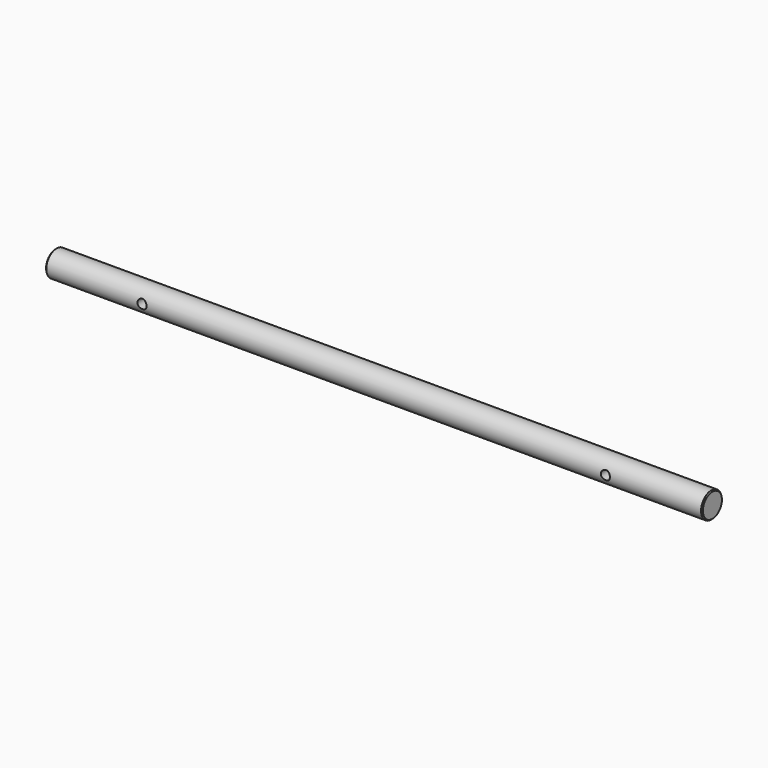
from build123d import *

# Parameters (mm, degrees)
F0_R     = 12.5
F1_DEPTH = 317.5
F4_D     = 8.8
F5_SIZE  = 1


with BuildPart() as f1:
    # F0 (on Right) → F1 (new body, symmetric)
    with BuildSketch(Plane.YZ):
        Circle(F0_R)
    extrude(amount=F1_DEPTH, both=True)

    # F4 (through all)
    with Locations(Plane.XZ.offset(25)):
        with Locations((-224, 0), (224, 0)):
            Hole(F4_D / 2)

    # F5
    f5_edges = [f1.edges().sort_by_distance(p)[0] for p in [
        (317.5, -12.5, 0),
        (-317.5, -12.5, 0),
    ]]
    chamfer(f5_edges, length=F5_SIZE)


solid = f1.part
